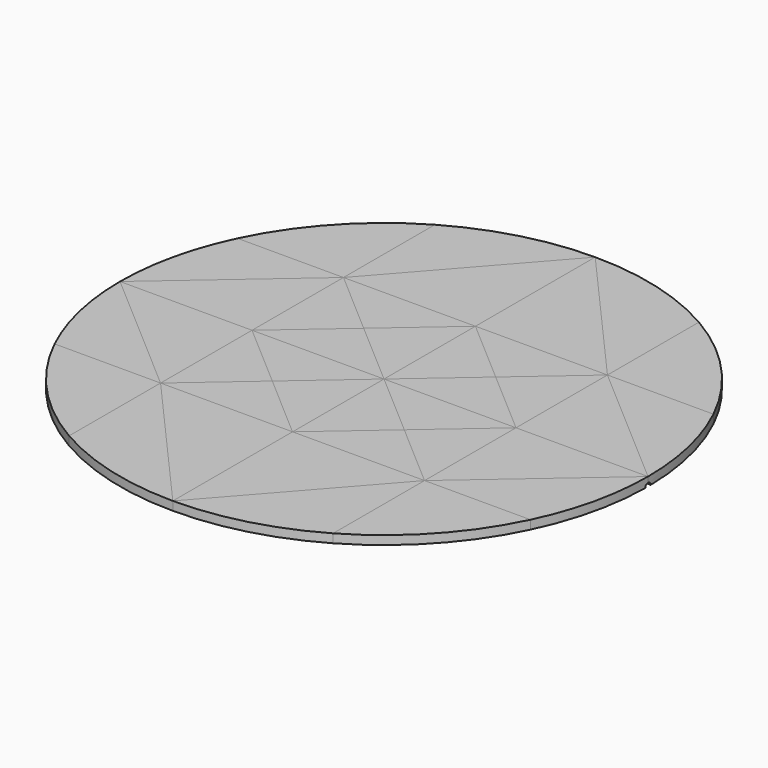
from build123d import *

# Parameters (mm, degrees)
F1_DEPTH  = 2.54
F2_DEPTH  = 2.54
F3_DEPTH  = 2.54
F4_DEPTH  = 2.54
F5_DEPTH  = 2.54
F6_DEPTH  = 2.54
F7_DEPTH  = 2.54
F8_DEPTH  = 2.54
F9_DEPTH  = 2.54
F10_DEPTH = 2.54
F11_DEPTH = 2.54
F12_DEPTH = 2.54
F13_DEPTH = 2.54
F14_DEPTH = 2.54
F15_DEPTH = 2.54
F16_DEPTH = 2.54
F17_DEPTH = 2.54
F18_DEPTH = 2.54
F19_DEPTH = 2.54
F20_DEPTH = 2.54
F21_DEPTH = 2.54
F22_DEPTH = 2.54
F23_DEPTH = 2.54
F24_DEPTH = 2.54
F25_DEPTH = 2.54
F26_DEPTH = 2.54
F27_DEPTH = 2.54
F28_DEPTH = 2.54
F29_DEPTH = 2.54
F30_DEPTH = 2.54
F31_DEPTH = 2.54
F32_DEPTH = 2.54
F33_DEPTH = 2.54
F34_DEPTH = 2.54
F35_DEPTH = 2.54
F36_DEPTH = 2.54


with BuildPart() as f1:
    # F0 (on Top) → F1 (new body)
    with BuildSketch(Plane.XY):
        with BuildLine():
            Line((-38.2778, 33.149547201), (0, 76.5556))
            ThreePointArc((0, 76.5556), (-19.8140472893, 73.9470311871), (-38.2778, 66.299094402))
            Line((-38.2778, 66.299094402), (-38.2778, 33.149547201))
        make_face()
    extrude(amount=F1_DEPTH)


with BuildPart() as f2:
    # F0 (on Top) → F2 (new body)
    with BuildSketch(Plane.XY):
        with BuildLine():
            Line((-69.006285306, 33.149547201), (-38.2778, 33.149547201))
            Line((-38.2778, 33.149547201), (-38.2778, 66.299094402))
            ThreePointArc((-38.2778, 66.299094402), (-56.1443840459, 52.0439048445), (-69.006285306, 33.149547201))
        make_face()
    extrude(amount=F2_DEPTH)


with BuildPart() as f3:
    # F0 (on Top) → F3 (new body)
    with BuildSketch(Plane.XY):
        with BuildLine():
            Line((-76.5556, 0), (-38.2778, 33.149547201))
            Line((-38.2778, 33.149547201), (-69.006285306, 33.149547201))
            ThreePointArc((-69.006285306, 33.149547201), (-74.6444152858, 16.9991516846), (-76.5556, 0))
        make_face()
    extrude(amount=F3_DEPTH)


with BuildPart() as f4:
    # F0 (on Top) → F4 (new body)
    with BuildSketch(Plane.XY):
        with BuildLine():
            Line((-69.006285306, -33.149547201), (-38.2778, -33.149547201))
            Line((-38.2778, -33.149547201), (-76.5556, 0))
            ThreePointArc((-76.5556, 0), (-74.6444152858, -16.9991516846), (-69.006285306, -33.149547201))
        make_face()
    extrude(amount=F4_DEPTH)


with BuildPart() as f5:
    # F0 (on Top) → F5 (new body)
    with BuildSketch(Plane.XY):
        with BuildLine():
            Line((-38.2778, -66.299094402), (-38.2778, -33.149547201))
            Line((-38.2778, -33.149547201), (-69.006285306, -33.149547201))
            ThreePointArc((-69.006285306, -33.149547201), (-56.1443840459, -52.0439048445), (-38.2778, -66.299094402))
        make_face()
    extrude(amount=F5_DEPTH)


with BuildPart() as f6:
    # F0 (on Top) → F6 (new body)
    with BuildSketch(Plane.XY):
        with BuildLine():
            ThreePointArc((-38.2778, -66.299094402), (-19.8140472893, -73.9470311871), (0, -76.5556))
            Line((0, -76.5556), (-38.2778, -33.149547201))
            Line((-38.2778, -33.149547201), (-38.2778, -66.299094402))
        make_face()
    extrude(amount=F6_DEPTH)


with BuildPart() as f7:
    # F0 (on Top) → F7 (new body)
    with BuildSketch(Plane.XY):
        with BuildLine():
            Line((38.2778, -66.299094402), (38.2778, -33.149547201))
            Line((38.2778, -33.149547201), (0, -76.5556))
            ThreePointArc((0, -76.5556), (19.8140472893, -73.9470311871), (38.2778, -66.299094402))
        make_face()
    extrude(amount=F7_DEPTH)


with BuildPart() as f8:
    # F0 (on Top) → F8 (new body)
    with BuildSketch(Plane.XY):
        with BuildLine():
            ThreePointArc((38.2778, -66.299094402), (56.1443840459, -52.0439048445), (69.006285306, -33.149547201))
            Line((69.006285306, -33.149547201), (38.2778, -33.149547201))
            Line((38.2778, -33.149547201), (38.2778, -66.299094402))
        make_face()
    extrude(amount=F8_DEPTH)


with BuildPart() as f9:
    # F0 (on Top) → F9 (new body)
    with BuildSketch(Plane.XY):
        with BuildLine():
            ThreePointArc((69.006285306, -33.149547201), (74.6444152858, -16.9991516846), (76.5556, 0))
            Line((76.5556, 0), (38.2778, -33.149547201))
            Line((38.2778, -33.149547201), (69.006285306, -33.149547201))
        make_face()
    extrude(amount=F9_DEPTH)


with BuildPart() as f10:
    # F0 (on Top) → F10 (new body)
    with BuildSketch(Plane.XY):
        with BuildLine():
            Line((38.2778, 33.149547201), (76.5556, 0))
            ThreePointArc((76.5556, 0), (74.6444152858, 16.9991516846), (69.006285306, 33.149547201))
            Line((69.006285306, 33.149547201), (38.2778, 33.149547201))
        make_face()
    extrude(amount=F10_DEPTH)


with BuildPart() as f11:
    # F0 (on Top) → F11 (new body)
    with BuildSketch(Plane.XY):
        with BuildLine():
            Line((38.2778, 33.149547201), (69.006285306, 33.149547201))
            ThreePointArc((69.006285306, 33.149547201), (56.1443840459, 52.0439048445), (38.2778, 66.299094402))
            Line((38.2778, 66.299094402), (38.2778, 33.149547201))
        make_face()
    extrude(amount=F11_DEPTH)


with BuildPart() as f12:
    # F0 (on Top) → F12 (new body)
    with BuildSketch(Plane.XY):
        with BuildLine():
            Line((0, 76.5556), (38.2778, 33.149547201))
            Line((38.2778, 33.149547201), (38.2778, 66.299094402))
            ThreePointArc((38.2778, 66.299094402), (19.8140472893, 73.9470311871), (0, 76.5556))
        make_face()
    extrude(amount=F12_DEPTH)


with BuildPart() as f13:
    # F0 (on Top) → F13 (new body)
    with BuildSketch(Plane.XY):
        Polygon((-38.2778, 33.149547201), (0, 33.149547201), (0, 76.5556), align=None)
    extrude(amount=F13_DEPTH)


with BuildPart() as f14:
    # F0 (on Top) → F14 (new body)
    with BuildSketch(Plane.XY):
        Polygon((-19.1389, 16.5747736005), (0, 33.149547201), (-38.2778, 33.149547201), align=None)
    extrude(amount=F14_DEPTH)


with BuildPart() as f15:
    # F0 (on Top) → F15 (new body)
    with BuildSketch(Plane.XY):
        Polygon((-38.2778, 33.149547201), (-38.2778, 0), (-19.1389, 16.5747736005), align=None)
    extrude(amount=F15_DEPTH)


with BuildPart() as f16:
    # F0 (on Top) → F16 (new body)
    with BuildSketch(Plane.XY):
        Polygon((-76.5556, 0), (-38.2778, 0), (-38.2778, 33.149547201), align=None)
    extrude(amount=F16_DEPTH)


with BuildPart() as f17:
    # F0 (on Top) → F17 (new body)
    with BuildSketch(Plane.XY):
        Polygon((-38.2778, -33.149547201), (-38.2778, 0), (-76.5556, 0), align=None)
    extrude(amount=F17_DEPTH)


with BuildPart() as f18:
    # F0 (on Top) → F18 (new body)
    with BuildSketch(Plane.XY):
        Polygon((-19.1389, -16.5747736005), (-38.2778, 0), (-38.2778, -33.149547201), align=None)
    extrude(amount=F18_DEPTH)


with BuildPart() as f19:
    # F0 (on Top) → F19 (new body)
    with BuildSketch(Plane.XY):
        Polygon((-38.2778, -33.149547201), (0, -33.149547201), (-19.1389, -16.5747736005), align=None)
    extrude(amount=F19_DEPTH)


with BuildPart() as f20:
    # F0 (on Top) → F20 (new body)
    with BuildSketch(Plane.XY):
        Polygon((0, -76.5556), (0, -33.149547201), (-38.2778, -33.149547201), align=None)
    extrude(amount=F20_DEPTH)


with BuildPart() as f21:
    # F0 (on Top) → F21 (new body)
    with BuildSketch(Plane.XY):
        Polygon((0, -76.5556), (38.2778, -33.149547201), (0, -33.149547201), align=None)
    extrude(amount=F21_DEPTH)


with BuildPart() as f22:
    # F0 (on Top) → F22 (new body)
    with BuildSketch(Plane.XY):
        Polygon((0, -33.149547201), (38.2778, -33.149547201), (19.1389, -16.5747736005), align=None)
    extrude(amount=F22_DEPTH)


with BuildPart() as f23:
    # F0 (on Top) → F23 (new body)
    with BuildSketch(Plane.XY):
        Polygon((38.2778, -33.149547201), (38.2778, 0), (19.1389, -16.5747736005), align=None)
    extrude(amount=F23_DEPTH)


with BuildPart() as f24:
    # F0 (on Top) → F24 (new body)
    with BuildSketch(Plane.XY):
        Polygon((38.2778, -33.149547201), (76.5556, 0), (38.2778, 0), align=None)
    extrude(amount=F24_DEPTH)


with BuildPart() as f25:
    # F0 (on Top) → F25 (new body)
    with BuildSketch(Plane.XY):
        Polygon((38.2778, 0), (76.5556, 0), (38.2778, 33.149547201), align=None)
    extrude(amount=F25_DEPTH)


with BuildPart() as f26:
    # F0 (on Top) → F26 (new body)
    with BuildSketch(Plane.XY):
        Polygon((19.1389, 16.5747736005), (38.2778, 0), (38.2778, 33.149547201), align=None)
    extrude(amount=F26_DEPTH)


with BuildPart() as f27:
    # F0 (on Top) → F27 (new body)
    with BuildSketch(Plane.XY):
        Polygon((19.1389, 16.5747736005), (38.2778, 33.149547201), (0, 33.149547201), align=None)
    extrude(amount=F27_DEPTH)


with BuildPart() as f28:
    # F0 (on Top) → F28 (new body)
    with BuildSketch(Plane.XY):
        Polygon((0, 33.149547201), (38.2778, 33.149547201), (0, 76.5556), align=None)
    extrude(amount=F28_DEPTH)


with BuildPart() as f29:
    # F0 (on Top) → F29 (new body)
    with BuildSketch(Plane.XY):
        Polygon((-19.1389, 16.5747736005), (0, 0), (0, 33.149547201), align=None)
    extrude(amount=F29_DEPTH)


with BuildPart() as f30:
    # F0 (on Top) → F30 (new body)
    with BuildSketch(Plane.XY):
        Polygon((-38.2778, 0), (0, 0), (-19.1389, 16.5747736005), align=None)
    extrude(amount=F30_DEPTH)


with BuildPart() as f31:
    # F0 (on Top) → F31 (new body)
    with BuildSketch(Plane.XY):
        Polygon((-19.1389, -16.5747736005), (0, 0), (-38.2778, 0), align=None)
    extrude(amount=F31_DEPTH)


with BuildPart() as f32:
    # F0 (on Top) → F32 (new body)
    with BuildSketch(Plane.XY):
        Polygon((0, -33.149547201), (0, 0), (-19.1389, -16.5747736005), align=None)
    extrude(amount=F32_DEPTH)


with BuildPart() as f33:
    # F0 (on Top) → F33 (new body)
    with BuildSketch(Plane.XY):
        Polygon((19.1389, -16.5747736005), (0, 0), (0, -33.149547201), align=None)
    extrude(amount=F33_DEPTH)


with BuildPart() as f34:
    # F0 (on Top) → F34 (new body)
    with BuildSketch(Plane.XY):
        Polygon((19.1389, -16.5747736005), (38.2778, 0), (0, 0), align=None)
    extrude(amount=F34_DEPTH)


with BuildPart() as f35:
    # F0 (on Top) → F35 (new body)
    with BuildSketch(Plane.XY):
        Polygon((0, 0), (38.2778, 0), (19.1389, 16.5747736005), align=None)
    extrude(amount=F35_DEPTH)


with BuildPart() as f36:
    # F0 (on Top) → F36 (new body)
    with BuildSketch(Plane.XY):
        Polygon((0, 33.149547201), (0, 0), (19.1389, 16.5747736005), align=None)
    extrude(amount=F36_DEPTH)


with BuildPart() as f38_tool:
    # F37 (on Front) → F38 (revolve)
    with BuildSketch(Plane.XZ):
        with BuildLine():
            ThreePointArc((120.0226888883, 0), (-0.0165998936, 1.6391011297), (-120.0558886754, 0))
            Line((-120.0558886754, 0), (120.0226888883, 0))
        make_face()
    revolve(axis=Axis((-0.0165998936, 0, 0), (1, 0, 0)))


with BuildPart() as f3_1:
    add(f3.part)

    # F38: cut by f38_tool
    add(f38_tool.part, mode=Mode.SUBTRACT)


with BuildPart() as f4_1:
    add(f4.part)

    # F38: cut by f38_tool
    add(f38_tool.part, mode=Mode.SUBTRACT)


with BuildPart() as f9_1:
    add(f9.part)

    # F38: cut by f38_tool
    add(f38_tool.part, mode=Mode.SUBTRACT)


with BuildPart() as f10_1:
    add(f10.part)

    # F38: cut by f38_tool
    add(f38_tool.part, mode=Mode.SUBTRACT)


with BuildPart() as f15_1:
    add(f15.part)

    # F38: cut by f38_tool
    add(f38_tool.part, mode=Mode.SUBTRACT)


with BuildPart() as f16_1:
    add(f16.part)

    # F38: cut by f38_tool
    add(f38_tool.part, mode=Mode.SUBTRACT)


with BuildPart() as f17_1:
    add(f17.part)

    # F38: cut by f38_tool
    add(f38_tool.part, mode=Mode.SUBTRACT)


with BuildPart() as f18_1:
    add(f18.part)

    # F38: cut by f38_tool
    add(f38_tool.part, mode=Mode.SUBTRACT)


with BuildPart() as f23_1:
    add(f23.part)

    # F38: cut by f38_tool
    add(f38_tool.part, mode=Mode.SUBTRACT)


with BuildPart() as f24_1:
    add(f24.part)

    # F38: cut by f38_tool
    add(f38_tool.part, mode=Mode.SUBTRACT)


with BuildPart() as f25_1:
    add(f25.part)

    # F38: cut by f38_tool
    add(f38_tool.part, mode=Mode.SUBTRACT)


with BuildPart() as f26_1:
    add(f26.part)

    # F38: cut by f38_tool
    add(f38_tool.part, mode=Mode.SUBTRACT)


with BuildPart() as f29_1:
    add(f29.part)

    # F38: cut by f38_tool
    add(f38_tool.part, mode=Mode.SUBTRACT)


with BuildPart() as f30_1:
    add(f30.part)

    # F38: cut by f38_tool
    add(f38_tool.part, mode=Mode.SUBTRACT)


with BuildPart() as f31_1:
    add(f31.part)

    # F38: cut by f38_tool
    add(f38_tool.part, mode=Mode.SUBTRACT)


with BuildPart() as f32_1:
    add(f32.part)

    # F38: cut by f38_tool
    add(f38_tool.part, mode=Mode.SUBTRACT)


with BuildPart() as f33_1:
    add(f33.part)

    # F38: cut by f38_tool
    add(f38_tool.part, mode=Mode.SUBTRACT)


with BuildPart() as f34_1:
    add(f34.part)

    # F38: cut by f38_tool
    add(f38_tool.part, mode=Mode.SUBTRACT)


with BuildPart() as f35_1:
    add(f35.part)

    # F38: cut by f38_tool
    add(f38_tool.part, mode=Mode.SUBTRACT)


with BuildPart() as f36_1:
    add(f36.part)

    # F38: cut by f38_tool
    add(f38_tool.part, mode=Mode.SUBTRACT)


solid = Compound([f1.part, f2.part, f5.part, f6.part, f7.part, f8.part, f11.part, f12.part, f13.part, f14.part, f19.part, f20.part, f21.part, f22.part, f27.part, f28.part, f3_1.part, f4_1.part, f9_1.part, f10_1.part, f15_1.part, f16_1.part, f17_1.part, f18_1.part, f23_1.part, f24_1.part, f25_1.part, f26_1.part, f29_1.part, f30_1.part, f31_1.part, f32_1.part, f33_1.part, f34_1.part, f35_1.part, f36_1.part])
